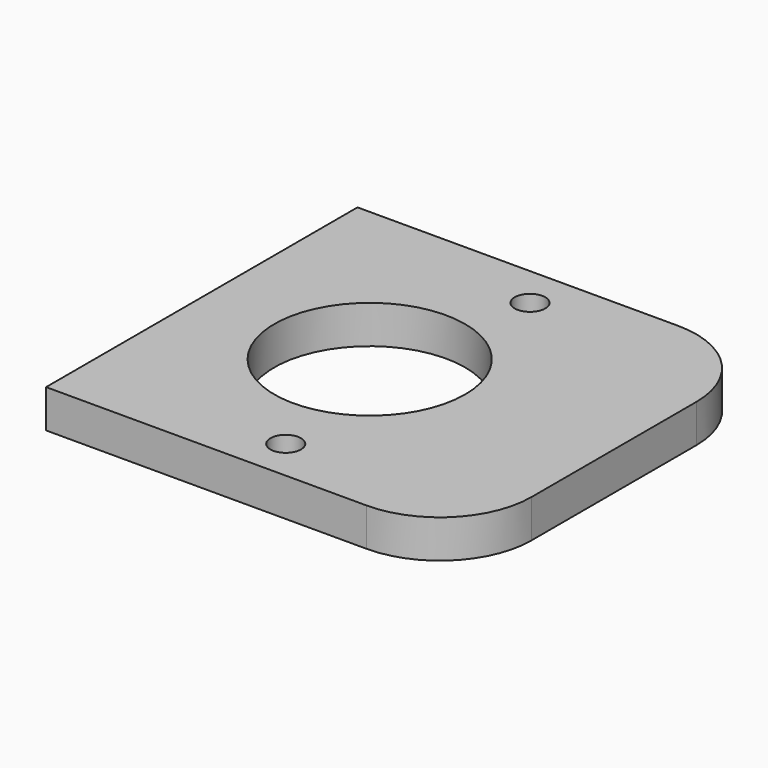
from build123d import *

# Parameters (mm, degrees)
F0_W     = 54
F0_H     = 51
F0_R     = 2
F0_R_2   = 12.5
F1_DEPTH = 5
F2_R     = 12


with BuildPart() as f1:
    # F0 (on Top) → F1 (new body)
    with BuildSketch(Plane.XY):
        Rectangle(F0_W, F0_H)
        with Locations((0, -20)):
            Circle(F0_R, mode=Mode.SUBTRACT)
        with Locations((-5, 0)):
            Circle(F0_R_2, mode=Mode.SUBTRACT)
        with Locations((0, 20)):
            Circle(F0_R, mode=Mode.SUBTRACT)
    extrude(amount=F1_DEPTH)

    # F2
    f2_edges = [f1.edges().sort_by_distance(p)[0] for p in [
        (27, -25.5, 2.5),
        (27, 25.5, 2.5),
    ]]
    fillet(f2_edges, radius=F2_R)


solid = f1.part
